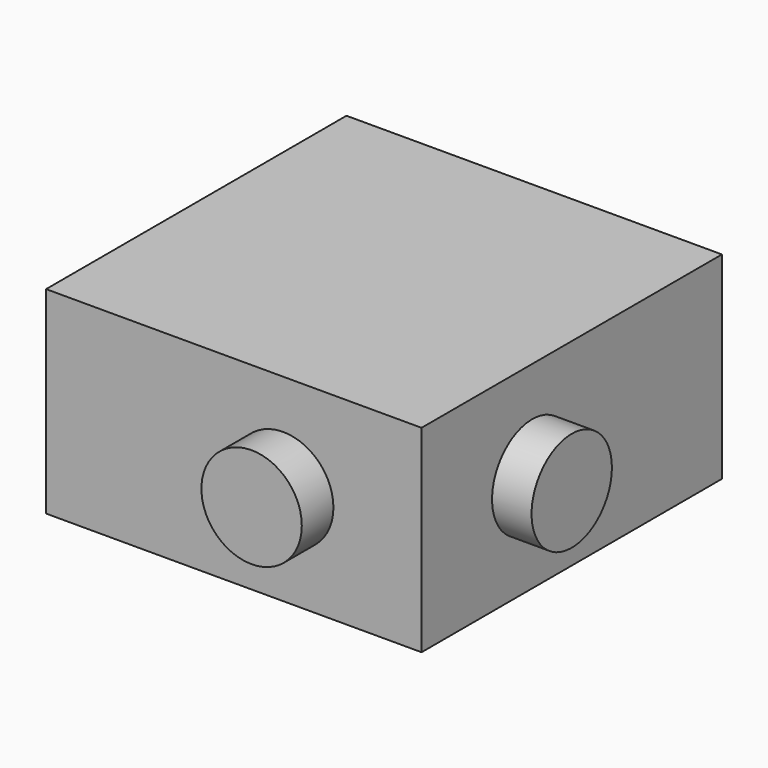
from build123d import *

# Parameters (mm, degrees)
F0_W     = 95
F0_H     = 95
F1_DEPTH = 50
F2_R     = 12.7
F3_DEPTH = 10
F4_R     = 12.7
F5_DEPTH = 10


with BuildPart() as f1:
    # F0 (on Top) → F1 (new body)
    with BuildSketch(Plane.XY):
        Rectangle(F0_W, F0_H)
    extrude(amount=F1_DEPTH)

    # F2 (on face) → F3 (join)
    with BuildSketch(Plane.XZ.offset(47.5)):
        with Locations((12.5, 25)):
            Circle(F2_R)
    extrude(amount=F3_DEPTH)

    # F4 (on face) → F5 (join)
    with BuildSketch(Plane.YZ.offset(47.5)):
        with Locations((-12.5, 25)):
            Circle(F4_R)
    extrude(amount=F5_DEPTH)


solid = f1.part
